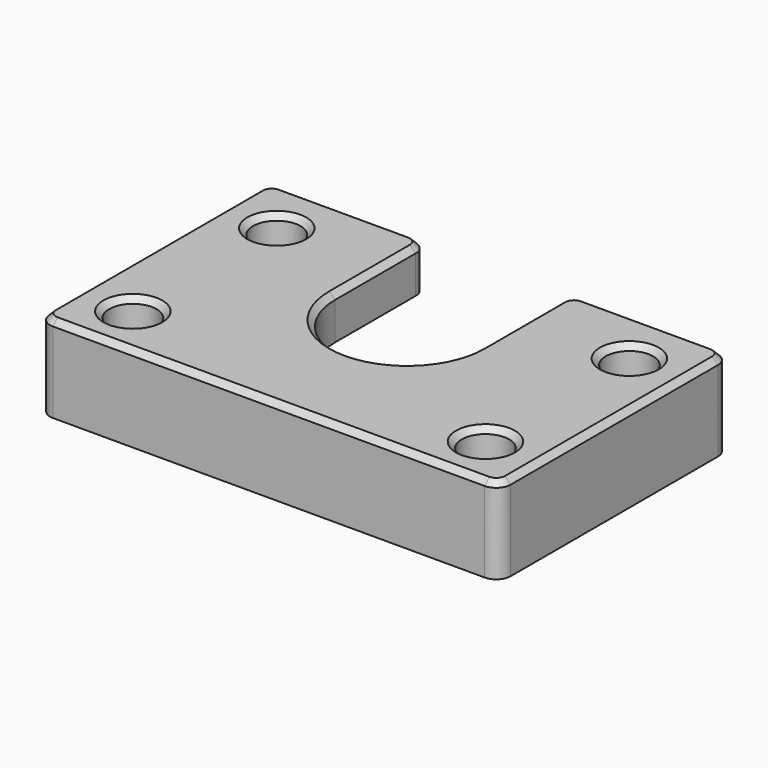
from build123d import *

# Parameters (mm, degrees)
SKETCH002_W             = 32
SKETCH002_H             = 20
PAD001_DEPTH            = 6
POCKET001_DEPTH         = 3
POCKET002_DEPTH         = 3.001
SKETCH005_R             = 1.65
POCKET003_DEPTH         = 6.001
FILLET001_R             = 1
CHAMFER_SIZE            = 0.4
BODY003_PLACEMENT_ANGLE = 180


with BuildPart() as part:
    # Sketch002 → Pad001 (new body)
    with BuildSketch(Plane.XY):
        with Locations((0, -10)):
            Rectangle(SKETCH002_W, SKETCH002_H)
    extrude(amount=PAD001_DEPTH)

    # Sketch003 (on Face5 of Pad001) → Pocket001 (cut)
    with BuildSketch(Plane(origin=(0, 0, 0), x_dir=(1, 0, 0), z_dir=(0, 0, -1))):
        with BuildLine():
            ThreePointArc((-10.25, 12), (0, 1.75), (10.25, 12))
            Line((10.25, 20), (10.25, 12))
            Line((-10.25, 20), (10.25, 20))
            Line((-10.25, 20), (-10.25, 12))
        make_face()
    extrude(amount=-POCKET001_DEPTH, mode=Mode.SUBTRACT)

    # Sketch004 (on Face10 of Pocket001) → Pocket002 (cut, through all)
    with BuildSketch(Plane(origin=(0, 0, 3), x_dir=(1, 0, 0), z_dir=(0, 0, -1))):
        with BuildLine():
            ThreePointArc((-5, 12), (0, 7), (5, 12))
            Line((5, 20), (5, 12))
            Line((-5, 20), (5, 20))
            Line((-5, 12), (-5, 20))
        make_face()
    extrude(amount=-POCKET002_DEPTH, mode=Mode.SUBTRACT)

    # Sketch005 (on Face4 of Pocket002) → Pocket003 (cut, through all)
    with BuildSketch(Plane(origin=(0, 0, 0), x_dir=(1, 0, 0), z_dir=(0, 0, -1))):
        with Locations((-12.25, 16)):
            Circle(SKETCH005_R)
        with Locations((12.25, 16)):
            Circle(SKETCH005_R)
        with Locations((-12.25, 3.5)):
            Circle(SKETCH005_R)
        with Locations((12.25, 3.5)):
            Circle(SKETCH005_R)
    extrude(amount=-POCKET003_DEPTH, mode=Mode.SUBTRACT)

    # Fillet001
    fillet001_edges = [part.edges().sort_by_distance(p)[0] for p in [
        (-16, -20, 3),
        (-16, 0, 3),
        (16, 0, 3),
        (16, -20, 3),
        (-5, -20, 4.5),
        (5, -20, 4.5),
        (10.25, -20, 1.5),
        (-10.25, -20, 1.5),
    ]]
    fillet(fillet001_edges, radius=FILLET001_R)

    # Chamfer
    chamfer_edges = [part.edges().sort_by_distance(p)[0] for p in [
        (0, 0, 6),
        (-15.707107, -0.292893, 6),
        (15.707107, -0.292893, 6),
        (-16, -10, 6),
        (16, -10, 6),
        (-15.707107, -19.707107, 6),
        (15.707107, -19.707107, 6),
        (-10.5, -20, 6),
        (10.5, -20, 6),
        (-5.292893, -19.707107, 6),
        (5.292893, -19.707107, 6),
        (-5, -15.5, 6),
        (5, -15.5, 6),
        (0, -7, 6),
        (-13.9, -16, 6),
        (10.6, -16, 6),
        (-13.9, -3.5, 6),
        (10.6, -3.5, 6),
    ]]
    chamfer(chamfer_edges, length=CHAMFER_SIZE)


with BuildPart() as part_1:
    # Body003 placement: moved
    add(part.part.moved(Location((-134, 10, -10))).rotate(Axis((-134, 10, -10), (0, 0, 1)), BODY003_PLACEMENT_ANGLE))


solid = part_1.part
